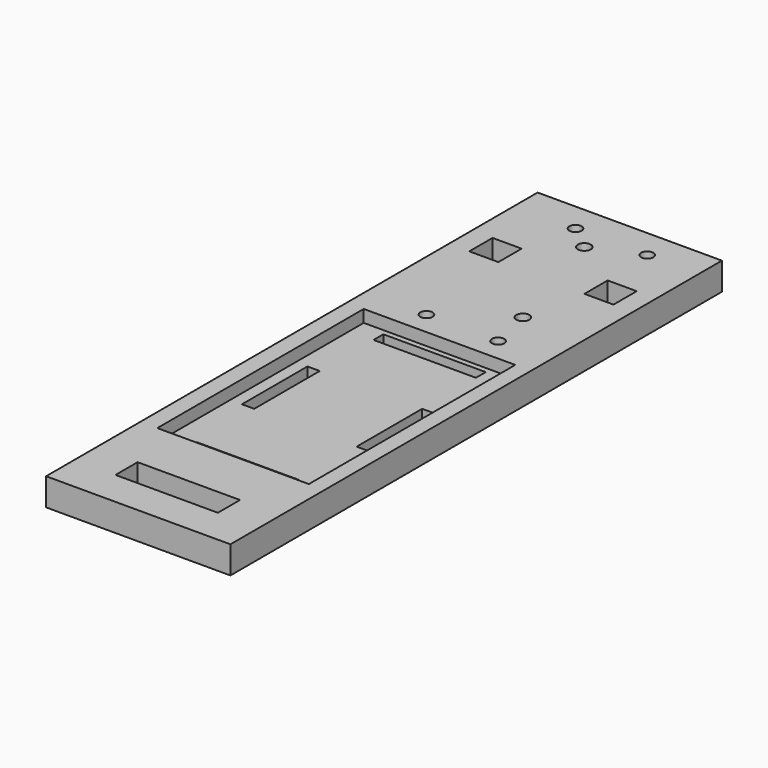
from build123d import *

# Parameters (mm, degrees)
SKETCH_W     = 45
SKETCH_H     = 150
SKETCH_R     = 1.5
SKETCH_R_2   = 1.6
SKETCH_W_2   = 25
SKETCH_H_2   = 6.75
SKETCH_H_3   = 3
SKETCH_W_3   = 3
SKETCH_H_4   = 20
SKETCH_W_4   = 7.1
SKETCH_H_5   = 7.1
PAD_DEPTH    = 6.7
SKETCH001_W  = 37
SKETCH001_H  = 63
POCKET_DEPTH = 3


with BuildPart() as part:
    # Sketch → Pad (new body)
    with BuildSketch(Plane.XY):
        with Locations((22.5, 75)):
            Rectangle(SKETCH_W, SKETCH_H)
        with Locations((14.933079, 142.899511)):
            Circle(SKETCH_R, mode=Mode.SUBTRACT)
        with Locations((14.933079, 97.399511)):
            Circle(SKETCH_R, mode=Mode.SUBTRACT)
        with Locations((32.433079, 97.399511)):
            Circle(SKETCH_R, mode=Mode.SUBTRACT)
        with Locations((32.433079, 142.899511)):
            Circle(SKETCH_R, mode=Mode.SUBTRACT)
        with Locations((21, 138)):
            Circle(SKETCH_R_2, mode=Mode.SUBTRACT)
        with Locations((30, 108)):
            Circle(SKETCH_R_2, mode=Mode.SUBTRACT)
        with Locations((22.5, 12.052246)):
            Rectangle(SKETCH_W_2, SKETCH_H_2, mode=Mode.SUBTRACT)
        with Locations((22.5, 88.929037)):
            Rectangle(SKETCH_W_2, SKETCH_H_3, mode=Mode.SUBTRACT)
        with Locations((22.5, 31.929037)):
            Rectangle(SKETCH_W_2, SKETCH_H_3, mode=Mode.SUBTRACT)
        with Locations((8.5, 61.019528)):
            Rectangle(SKETCH_W_3, SKETCH_H_4, mode=Mode.SUBTRACT)
        with Locations((36.5, 61.019528)):
            Rectangle(SKETCH_W_3, SKETCH_H_4, mode=Mode.SUBTRACT)
        with Locations((8.55, 126.45)):
            Rectangle(SKETCH_W_4, SKETCH_H_5, mode=Mode.SUBTRACT)
        with Locations((36.65, 126.45)):
            Rectangle(SKETCH_W_4, SKETCH_H_5, mode=Mode.SUBTRACT)
    extrude(amount=PAD_DEPTH)

    # Sketch001 (on Face34 of Pad) → Pocket (cut)
    with BuildSketch(Plane.XY.offset(6.7)):
        with Locations((22.640953, 60.266175)):
            Rectangle(SKETCH001_W, SKETCH001_H)
    extrude(amount=-POCKET_DEPTH, mode=Mode.SUBTRACT)


solid = part.part
